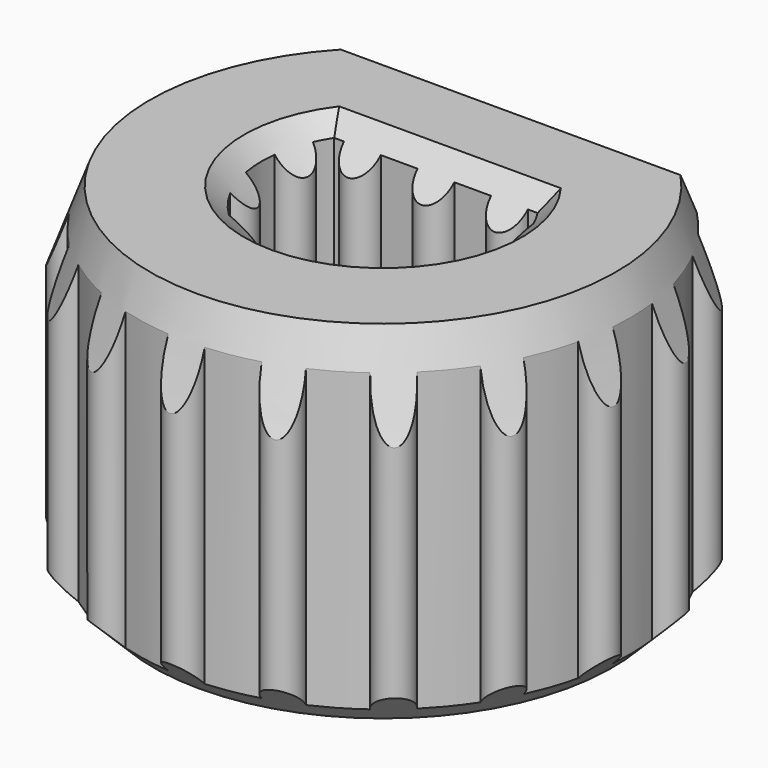
from build123d import *

# Parameters (mm, degrees)
PAD004_DEPTH     = 10
SKETCH007_W      = 2
SKETCH007_H      = 16
PAD005_DEPTH     = 1
PAD008_DEPTH     = 10
CHAMFER_SIZE     = 1
SKETCH008_R      = 10
PAD006_DEPTH     = 10
SKETCH009_W      = 2
SKETCH009_H      = 10
PAD007_DEPTH     = 1
SKETCH012_R      = 10
PAD009_DEPTH     = 10
CHAMFER001_SIZE  = 1
CHAMFER002_ANGLE = 70
CHAMFER002_SIZE  = 1
PAD_DEPTH        = 4.75
SKETCH002_R      = 0.5
PAD002_DEPTH     = 4.75
SKETCH003_R      = 0.5
PAD003_DEPTH     = 4.75
POCKET_DEPTH     = 2.2


with BuildPart() as body001:
    # Sketch006 (on DatumPlane) → Pad004 (new body)
    with BuildSketch(Plane.XY.offset(-1.55)):
        with BuildLine():
            ThreePointArc((-3.024897, 2.3), (0, -3.8), (3.024897, 2.3))
            Line((-3.024897, 2.3), (3.024897, 2.3))
        make_face()
    extrude(amount=-PAD004_DEPTH)

    # Sketch007 → Pad005 (join, symmetric)
    with BuildSketch(Plane.YZ):
        Rectangle(SKETCH007_W, SKETCH007_H)
    extrude(amount=PAD005_DEPTH, both=True)

    # Sketch011 (on DatumPlane) → Pad008 (join)
    with BuildSketch(Plane.XY.offset(3.75)):
        with BuildLine():
            ThreePointArc((-3.014963, 2.28), (0, -3.78), (3.014963, 2.28))
            Line((-3.014963, 2.28), (3.014963, 2.28))
        make_face()
    extrude(amount=PAD008_DEPTH)

    # Chamfer
    chamfer_edges = [body001.edges().sort_by_distance(p)[0] for p in [
        (0, -3.78, 3.75),
        (0, 2.28, 3.75),
        (0, -3.8, -1.55),
        (0, 2.3, -1.55),
    ]]
    chamfer(chamfer_edges, length=CHAMFER_SIZE)


with BuildPart() as body002:
    # Sketch008 (on DatumPlane) → Pad006 (new body)
    with BuildSketch(Plane.XY.offset(2.25)):
        Circle(SKETCH008_R)
        with BuildLine():
            ThreePointArc((-4.582576, 4.25), (0, -6.25), (4.582576, 4.25))
            Line((-4.582576, 4.25), (4.582576, 4.25))
        make_face(mode=Mode.SUBTRACT)
    extrude(amount=PAD006_DEPTH)

    # Sketch009 → Pad007 (join, symmetric)
    with BuildSketch(Plane.YZ):
        with Locations((7, 0)):
            Rectangle(SKETCH009_W, SKETCH009_H)
    extrude(amount=PAD007_DEPTH, both=True)

    # Sketch012 (on DatumPlane) → Pad009 (join)
    with BuildSketch(Plane.XY.offset(-3.75)):
        Circle(SKETCH012_R)
        with BuildLine():
            ThreePointArc((-4.582576, 4.25), (0, -6.25), (4.582576, 4.25))
            Line((-4.582576, 4.25), (4.582576, 4.25))
        make_face(mode=Mode.SUBTRACT)
    extrude(amount=-PAD009_DEPTH)

    # Chamfer001
    chamfer001_edges = [body002.edges().sort_by_distance(p)[0] for p in [
        (0, 4.25, -3.75),
        (0, -6.25, -3.75),
    ]]
    chamfer(chamfer001_edges, length=CHAMFER001_SIZE)

    # Chamfer002
    chamfer002_edges = [body002.edges().sort_by_distance(p)[0] for p in [
        (0, -6.25, 2.25),
        (0, 4.25, 2.25),
    ]]
    chamfer002_side = body002.faces().sort_by_distance((-9.717157, 0, 2.25))[0]
    chamfer(chamfer002_edges, length=CHAMFER002_SIZE, angle=CHAMFER002_ANGLE, reference=chamfer002_side)


with BuildPart() as plastic_tek2_knob_interface:
    # Sketch → Pad (new body, symmetric)
    with BuildSketch(Plane.XY):
        with BuildLine():
            Line((-4.774935, 4.7), (4.774935, 4.7))
            ThreePointArc((-4.774935, 4.7), (0, -6.7), (4.774935, 4.7))
        make_face()
        with BuildLine():
            Line((-2.765863, 1.8), (2.765863, 1.8))
            ThreePointArc((-2.765863, 1.8), (0, -3.3), (2.765863, 1.8))
        make_face(mode=Mode.SUBTRACT)
    extrude(amount=PAD_DEPTH, both=True)

    # Sketch002 → Pad002 (join, symmetric)
    with BuildSketch(Plane.XY):
        with Locations((-5.74108, 3.55)):
            Circle(SKETCH002_R)
        with Locations((-6.615847, 1.339056)):
            Circle(SKETCH002_R)
        with Locations((-6.669705, -1.038041)):
            Circle(SKETCH002_R)
        with Locations((-4.390656, -5.126855)):
            Circle(SKETCH002_R)
        with Locations((-2.340538, -6.331223)):
            Circle(SKETCH002_R)
        with Locations((0, -6.75)):
            Circle(SKETCH002_R)
        with Locations((5.74108, 3.55)):
            Circle(SKETCH002_R)
        with Locations((-5.895973, -3.286335)):
            Circle(SKETCH002_R)
        with Locations((6.615847, 1.339056)):
            Circle(SKETCH002_R)
        with Locations((4.390656, -5.126855)):
            Circle(SKETCH002_R)
        with Locations((5.895973, -3.286335)):
            Circle(SKETCH002_R)
        with Locations((2.340538, -6.331223)):
            Circle(SKETCH002_R)
        with Locations((6.669705, -1.038041)):
            Circle(SKETCH002_R)
        with Locations((-3.45, 4.75)):
            Circle(SKETCH002_R)
        with Locations((-1.15, 4.75)):
            Circle(SKETCH002_R)
        with Locations((1.15, 4.75)):
            Circle(SKETCH002_R)
        with Locations((3.45, 4.75)):
            Circle(SKETCH002_R)
    extrude(amount=PAD002_DEPTH, both=True)

    # Sketch003 → Pad003 (join, symmetric)
    with BuildSketch(Plane.XY):
        with Locations((-2, 1.8)):
            Circle(SKETCH003_R)
        with Locations((0, 1.8)):
            Circle(SKETCH003_R)
        with Locations((2, 1.8)):
            Circle(SKETCH003_R)
        with Locations((-3.174902, 0.9)):
            Circle(SKETCH003_R)
        with Locations((-3.111698, -1.098789)):
            Circle(SKETCH003_R)
        with Locations((-1.90578, -2.694068)):
            Circle(SKETCH003_R)
        with Locations((0, -3.3)):
            Circle(SKETCH003_R)
        with Locations((1.90578, -2.694068)):
            Circle(SKETCH003_R)
        with Locations((3.111698, -1.098789)):
            Circle(SKETCH003_R)
        with Locations((3.174902, 0.9)):
            Circle(SKETCH003_R)
    extrude(amount=PAD003_DEPTH, both=True)

    # Sketch010 (on DatumPlane) → Pocket (cut)
    with BuildSketch(Plane.XY.offset(-4.75)):
        with BuildLine():
            ThreePointArc((-4, 3), (0, -5), (4, 3))
            Line((4, 5.5), (4, 3))
            Line((-4, 5.5), (4, 5.5))
            Line((-4, 3), (-4, 5.5))
        make_face()
    extrude(amount=POCKET_DEPTH, mode=Mode.SUBTRACT)

    # Boolean: cut Body001
    add(body001.part, mode=Mode.SUBTRACT)

    # Boolean001: cut Body002
    add(body002.part, mode=Mode.SUBTRACT)


solid = plastic_tek2_knob_interface.part
